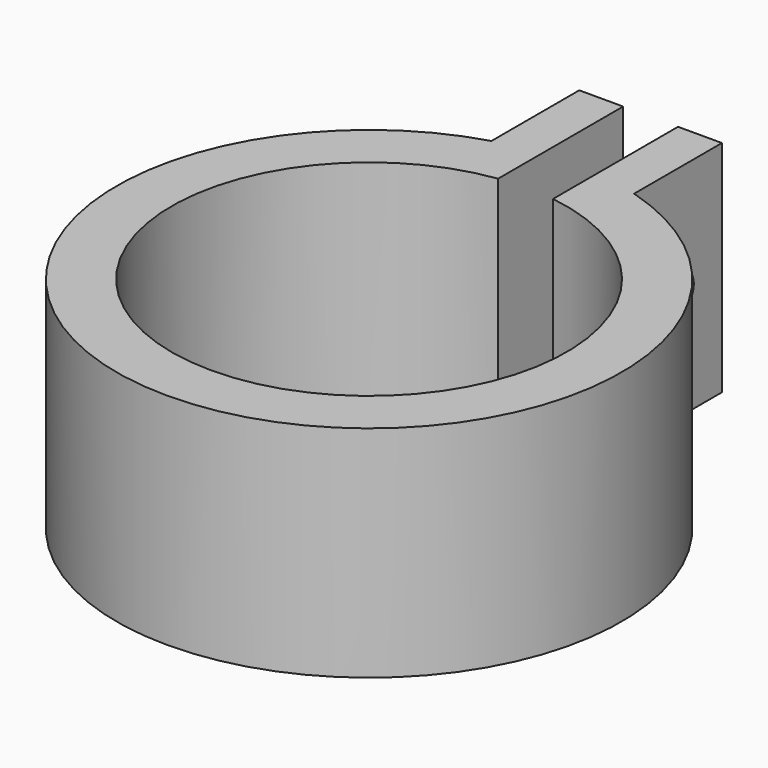
from build123d import *

# Parameters (mm, degrees)
PAD_DEPTH    = 20
SKETCH001_R  = 1.8
POCKET_DEPTH = 29.501


with BuildPart() as part:
    # Sketch → Pad (new body)
    with BuildSketch(Plane.XY):
        with BuildLine():
            ThreePointArc((-2.5, 17.825543), (0, -18), (2.5, 17.825543))
            Line((2.5, 32.062411), (2.5, 17.825543))
            Line((6.5, 32.062411), (2.5, 32.062411))
            Line((6.5, 22.062411), (6.5, 32.062411))
            ThreePointArc((-6.5, 22.062411), (0, -23), (6.5, 22.062411))
            Line((-6.5, 22.062411), (-6.5, 32.062411))
            Line((-6.5, 32.062411), (-2.5, 32.062411))
            Line((-2.5, 32.062411), (-2.5, 17.825543))
        make_face()
    extrude(amount=PAD_DEPTH)

    # Sketch001 → Pocket (cut, through all)
    with BuildSketch(Plane.YZ.offset(6.5)):
        with Locations((27.062411, 10)):
            Circle(SKETCH001_R)
    extrude(amount=-POCKET_DEPTH, mode=Mode.SUBTRACT)


solid = part.part
